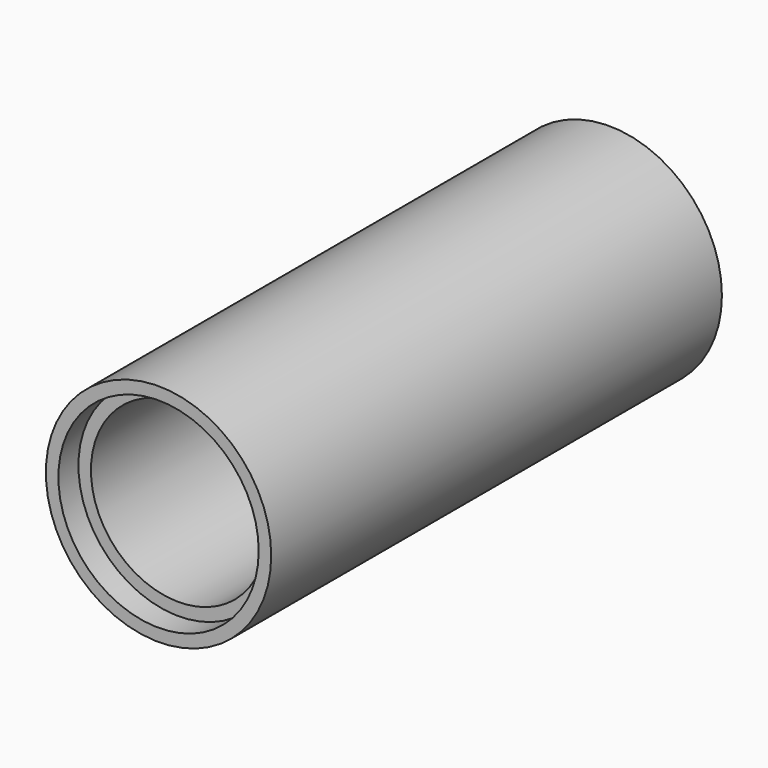
from build123d import *

# Parameters (mm, degrees)
F0_R     = 9
F0_R_2   = 7
F1_DEPTH = 45
F3_R     = 8
F4_DEPTH = 2


with BuildPart() as f1:
    # F0 (on Front) → F1 (new body)
    with BuildSketch(Plane.XZ):
        Circle(F0_R)
        Circle(F0_R_2, mode=Mode.SUBTRACT)
    extrude(amount=F1_DEPTH)

    # F3 (on offset) → F4 (cut)
    with BuildSketch(Plane.XZ.offset(45)):
        Circle(F3_R)
    extrude(amount=-F4_DEPTH, mode=Mode.SUBTRACT)


solid = f1.part
